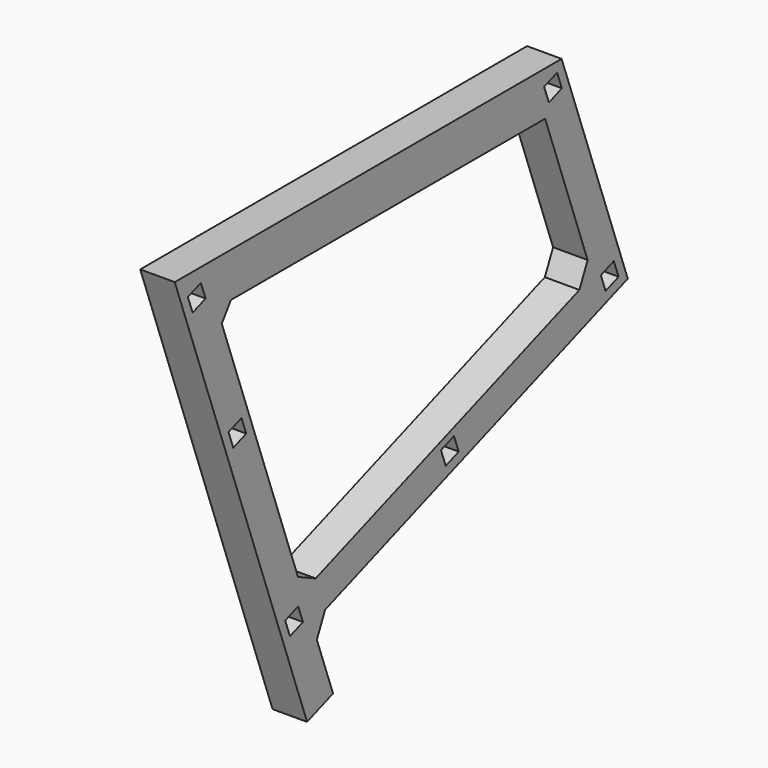
from build123d import *

# Parameters (mm, degrees)
PAD023_DEPTH            = 10
SKETCH037_W             = 5
SKETCH037_H             = 5
POCKET014_DEPTH         = 10
CHAMFER001_SIZE         = 5
BODY012_PLACEMENT_ANGLE = 70


with BuildPart() as part:
    # Sketch038 → Pad023 (new body)
    with BuildSketch(Plane.YZ):
        Polygon((0, 0), (47.88282, 131.556967), (117.88282, 131.556967), (117.88282, 10), (140, 10), (140, 0), align=None)
        Polygon((57.88282, 121.556967), (17.279405, 10), (107.88282, 10), (107.88282, 121.556967), align=None, mode=Mode.SUBTRACT)
    extrude(amount=PAD023_DEPTH)

    # Sketch037 → Pocket014 (cut)
    with BuildSketch(Plane.YZ):
        with Locations((112.5, 5)):
            Rectangle(SKETCH037_W, SKETCH037_H)
        with Locations((9.5, 5)):
            Rectangle(SKETCH037_W, SKETCH037_H)
        with Locations((52.5, 126.56)):
            Rectangle(SKETCH037_W, SKETCH037_H)
        with Locations((112.5, 126.56)):
            Rectangle(SKETCH037_W, SKETCH037_H)
        with Locations((52.5, 5)):
            Rectangle(SKETCH037_W, SKETCH037_H)
        with Locations((112.5, 65)):
            Rectangle(SKETCH037_W, SKETCH037_H)
    extrude(amount=POCKET014_DEPTH, mode=Mode.SUBTRACT)

    # Chamfer001
    chamfer001_edges = [part.edges().sort_by_distance(p)[0] for p in [
        (5, 117.88282, 10),
        (5, 107.88282, 10),
        (5, 107.88282, 121.556967),
        (5, 17.279405, 10),
    ]]
    chamfer(chamfer001_edges, length=CHAMFER001_SIZE)


with BuildPart() as part_1:
    # Body012 placement: moved
    add(part.part.moved(Location((166, -19.731529, -6.864937))).rotate(Axis((166, -19.731529, -6.864937), (-1, 0, 0)), BODY012_PLACEMENT_ANGLE))


solid = part_1.part
